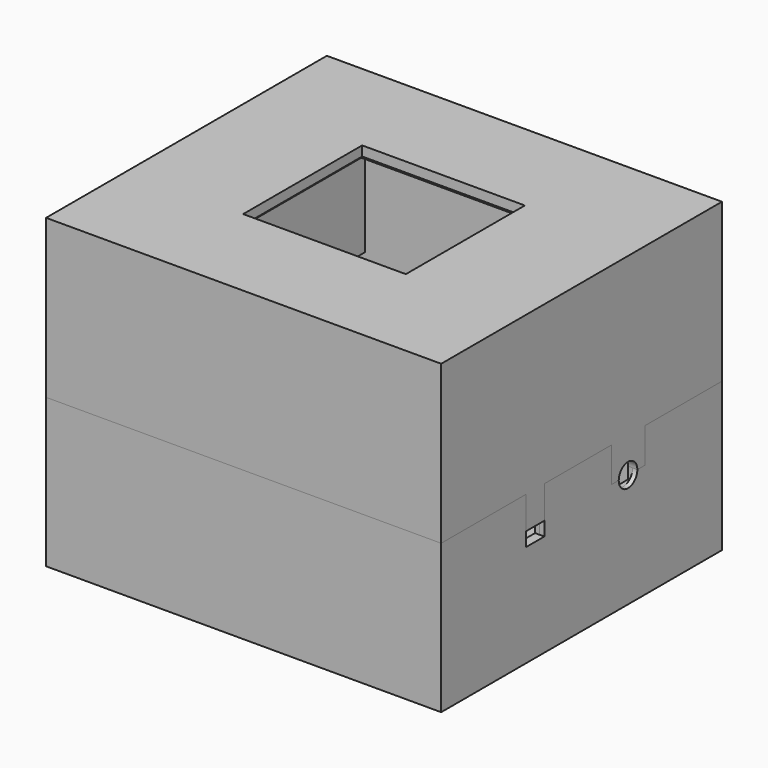
from build123d import *

# Parameters (mm, degrees)
SKETCH_W        = 85
SKETCH_H        = 75.5
PAD_DEPTH       = 2
SKETCH001_W     = 71
SKETCH001_H     = 61.5
PAD001_DEPTH    = 1
SKETCH002_R     = 2.5
SKETCH002_W     = 65
SKETCH002_H     = 2
SKETCH002_W_2   = 5
SKETCH002_H_2   = 15
PAD002_DEPTH    = 5
SKETCH003_R     = 1.1
POCKET_DEPTH    = 7
SKETCH004_W     = 85
SKETCH004_H     = 75.5
SKETCH004_W_2   = 81
SKETCH004_H_2   = 71.5
PAD003_DEPTH    = 30
SKETCH005_W     = 83
SKETCH005_H     = 73.5
POCKET001_DEPTH = 10
SKETCH013_W     = 5
SKETCH013_H     = 10
POCKET003_DEPTH = 5
SKETCH016_W     = 5
SKETCH016_H     = 10
POCKET005_DEPTH = 5
SKETCH006_W     = 85
SKETCH006_H     = 75.5
PAD004_DEPTH    = 2
SKETCH008_W     = 85
SKETCH008_H     = 75.5
SKETCH008_W_2   = 81
SKETCH008_H_2   = 71.5
PAD005_DEPTH    = 32
SKETCH009_W     = 83
SKETCH009_H     = 73.5
SKETCH009_W_2   = 81
SKETCH009_H_2   = 71.5
PAD006_DEPTH    = 10
SKETCH010_W     = 35
SKETCH010_H     = 32
POCKET002_DEPTH = 5
SKETCH011_W     = 20
SKETCH011_H     = 40
PAD007_DEPTH    = 1
SKETCH014_W     = 5
SKETCH014_H     = 3
POCKET004_DEPTH = 5
SKETCH015_W     = 5
SKETCH015_H     = 7
PAD009_DEPTH    = 1
SKETCH017_W     = 5
SKETCH017_H     = 3
POCKET006_DEPTH = 5
SKETCH018_W     = 5
SKETCH018_H     = 7
PAD010_DEPTH    = 1
SKETCH019_W     = 39
SKETCH019_H     = 36
SKETCH019_W_2   = 35
SKETCH019_H_2   = 32
PAD011_DEPTH    = 1
CHAMFER_SIZE    = 0.9
SKETCH012_W     = 20
SKETCH012_H     = 40
PAD008_DEPTH    = 20


with BuildPart() as box:
    # Sketch → Pad (new body)
    with BuildSketch(Plane.XY):
        Rectangle(SKETCH_W, SKETCH_H)
    extrude(amount=PAD_DEPTH)

    # Sketch001 (on Face6 of Pad) → Pad001 (join)
    with BuildSketch(Plane.XY.offset(2)):
        Rectangle(SKETCH001_W, SKETCH001_H)
    extrude(amount=PAD001_DEPTH)

    # Sketch002 (on Face11 of Pad001) → Pad002 (join)
    with BuildSketch(Plane.XY.offset(3)):
        with Locations((-33, 28.25)):
            Circle(SKETCH002_R)
        with Locations((31.5, 25.75)):
            Circle(SKETCH002_R)
        with Locations((33, -28.25)):
            Circle(SKETCH002_R)
        with Locations((-3, -29.75)):
            Rectangle(SKETCH002_W, SKETCH002_H)
        with Locations((-1, 6.25)):
            Rectangle(SKETCH002_W_2, SKETCH002_H_2)
    extrude(amount=PAD002_DEPTH)

    # Sketch003 (on Face26 of Pad002) → Pocket (cut)
    with BuildSketch(Plane.XY.offset(8)):
        with Locations((33, -28.25)):
            Circle(SKETCH003_R)
        with Locations((31.5, 25.75)):
            Circle(SKETCH003_R)
        with Locations((-33, 28.25)):
            Circle(SKETCH003_R)
    extrude(amount=-POCKET_DEPTH, mode=Mode.SUBTRACT)

    # Sketch004 (on Face5 of Pocket) → Pad003 (join)
    with BuildSketch(Plane.XY.offset(2)):
        Rectangle(SKETCH004_W, SKETCH004_H)
        Rectangle(SKETCH004_W_2, SKETCH004_H_2, mode=Mode.SUBTRACT)
    extrude(amount=PAD003_DEPTH)

    # Sketch005 (on Face9 of Pad003) → Pocket001 (cut)
    with BuildSketch(Plane.XY.offset(32)):
        Rectangle(SKETCH005_W, SKETCH005_H)
    extrude(amount=-POCKET001_DEPTH, mode=Mode.SUBTRACT)

    # Sketch013 (on Face7 of Pocket001) → Pocket003 (cut)
    with BuildSketch(Plane(origin=(-42.5, 0, 0), x_dir=(0, -1, 0), z_dir=(-1, 0, 0))):
        with Locations((-12.5, 27)):
            Rectangle(SKETCH013_W, SKETCH013_H)
        with Locations((12.5, 27)):
            Rectangle(SKETCH013_W, SKETCH013_H)
    extrude(amount=-POCKET003_DEPTH, mode=Mode.SUBTRACT)

    # Sketch016 (on Face8 of Pocket003) → Pocket005 (cut)
    with BuildSketch(Plane.YZ.offset(42.5)):
        with BuildLine():
            Line((8, 32), (17, 32))
            Line((17, 32), (17, 24.5))
            Line((17, 24.5), (15, 24.5))
            ThreePointArc((10, 24.5), (12.5, 22), (15, 24.5))
            Line((8, 24.5), (10, 24.5))
            Line((8, 32), (8, 24.5))
        make_face()
        with Locations((-12.5, 27)):
            Rectangle(SKETCH016_W, SKETCH016_H)
    extrude(amount=-POCKET005_DEPTH, mode=Mode.SUBTRACT)


with BuildPart() as cup:
    # Sketch006 → Pad004 (new body)
    with BuildSketch(Plane.XY):
        Rectangle(SKETCH006_W, SKETCH006_H)
    extrude(amount=PAD004_DEPTH)

    # Sketch008 (on Face5 of Pad004) → Pad005 (join)
    with BuildSketch(Plane(origin=(0, 0, 0), x_dir=(1, 0, 0), z_dir=(0, 0, -1))):
        Rectangle(SKETCH008_W, SKETCH008_H)
        Rectangle(SKETCH008_W_2, SKETCH008_H_2, mode=Mode.SUBTRACT)
    extrude(amount=PAD005_DEPTH)

    # Sketch009 (on Face9 of Pad005) → Pad006 (join)
    with BuildSketch(Plane(origin=(0, 0, -32), x_dir=(1, 0, 0), z_dir=(0, 0, -1))):
        Rectangle(SKETCH009_W, SKETCH009_H)
        Rectangle(SKETCH009_W_2, SKETCH009_H_2, mode=Mode.SUBTRACT)
    extrude(amount=PAD006_DEPTH)

    # Sketch010 (on Face5 of Pad006) → Pocket002 (cut)
    with BuildSketch(Plane.XY.offset(2)):
        Rectangle(SKETCH010_W, SKETCH010_H)
    extrude(amount=-POCKET002_DEPTH, mode=Mode.SUBTRACT)

    # Sketch011 (on Face19 of Pocket002) → Pad007 (join)
    with BuildSketch(Plane(origin=(0, 0, 0), x_dir=(1, 0, 0), z_dir=(0, 0, -1))):
        with Locations((30.5, 0)):
            Rectangle(SKETCH011_W, SKETCH011_H)
        with Locations((-30.5, 0)):
            Rectangle(SKETCH011_W, SKETCH011_H)
    extrude(amount=PAD007_DEPTH)

    # Sketch014 (on Face18 of Pad007) → Pocket004 (cut)
    with BuildSketch(Plane(origin=(-41.5, 0, 0), x_dir=(0, -1, 0), z_dir=(-1, 0, 0))):
        with Locations((-12.5, -40.5)):
            Rectangle(SKETCH014_W, SKETCH014_H)
        with Locations((12.5, -40.5)):
            Rectangle(SKETCH014_W, SKETCH014_H)
    extrude(amount=-POCKET004_DEPTH, mode=Mode.SUBTRACT)

    # Sketch015 (on Face18 of Pocket004) → Pad009 (join)
    with BuildSketch(Plane(origin=(-41.5, 0, 0), x_dir=(0, -1, 0), z_dir=(-1, 0, 0))):
        with Locations((-12.5, -35.5)):
            Rectangle(SKETCH015_W, SKETCH015_H)
        with Locations((12.5, -35.5)):
            Rectangle(SKETCH015_W, SKETCH015_H)
    extrude(amount=PAD009_DEPTH)

    # Sketch017 (on Face21 of Pad009) → Pocket006 (cut)
    with BuildSketch(Plane.YZ.offset(41.5)):
        with Locations((-12.5, -40.5)):
            Rectangle(SKETCH017_W, SKETCH017_H)
        with BuildLine():
            Line((10, -39.5), (10, -42))
            Line((10, -42), (15, -42))
            Line((15, -42), (15, -39.5))
            ThreePointArc((15, -39.5), (12.5, -37), (10, -39.5))
        make_face()
    extrude(amount=-POCKET006_DEPTH, mode=Mode.SUBTRACT)

    # Sketch018 (on Face21 of Pocket006) → Pad010 (join)
    with BuildSketch(Plane.YZ.offset(41.5)):
        with Locations((-12.5, -35.5)):
            Rectangle(SKETCH018_W, SKETCH018_H)
        with BuildLine():
            Line((10, -39.5), (8, -39.5))
            Line((8, -39.5), (8, -32))
            Line((8, -32), (17, -32))
            Line((17, -32), (17, -39.5))
            Line((17, -39.5), (15, -39.5))
            ThreePointArc((15, -39.5), (12.5, -37), (10, -39.5))
        make_face()
    extrude(amount=PAD010_DEPTH)

    # Sketch019 (on Face27 of Pad010) → Pad011 (join)
    with BuildSketch(Plane(origin=(0, 0, 0), x_dir=(1, 0, 0), z_dir=(0, 0, -1))):
        Rectangle(SKETCH019_W, SKETCH019_H)
        Rectangle(SKETCH019_W_2, SKETCH019_H_2, mode=Mode.SUBTRACT)
    extrude(amount=PAD011_DEPTH)

    # Chamfer
    chamfer_edges = [cup.edges().sort_by_distance(p)[0] for p in [
        (17.5, 0, -1),
        (0, -16, -1),
        (-17.5, 0, -1),
        (0, 16, -1),
    ]]
    chamfer(chamfer_edges, length=CHAMFER_SIZE)


with BuildPart() as cup_1:
    # Body001 placement: moved
    add(cup.part.moved(Location((0, 0, 64))))


with BuildPart() as obj1_one:
    # Sketch012 → Pad008 (new body)
    with BuildSketch(Plane.XY):
        with Locations((0.438893, -1.554454)):
            Rectangle(SKETCH012_W, SKETCH012_H)
    extrude(amount=PAD008_DEPTH)


with BuildPart() as obj1_one_1:
    # Body002 placement: moved
    add(obj1_one.part.moved(Location((30, 2, 43))))


with BuildPart() as mirror:
    # mirror: instance of obj1_one
    add(obj1_one_1.part.mirror(Plane(origin=(0, -11, 0), x_dir=(0, -1, 0), z_dir=(1, 0, 0))))


with BuildPart() as obj1:
    # Fusion base: copy of obj1_one
    add(obj1_one_1.part)

    # Fusion: union mirror
    add(mirror.part)


solid = Compound([box.part, cup_1.part, obj1.part])
